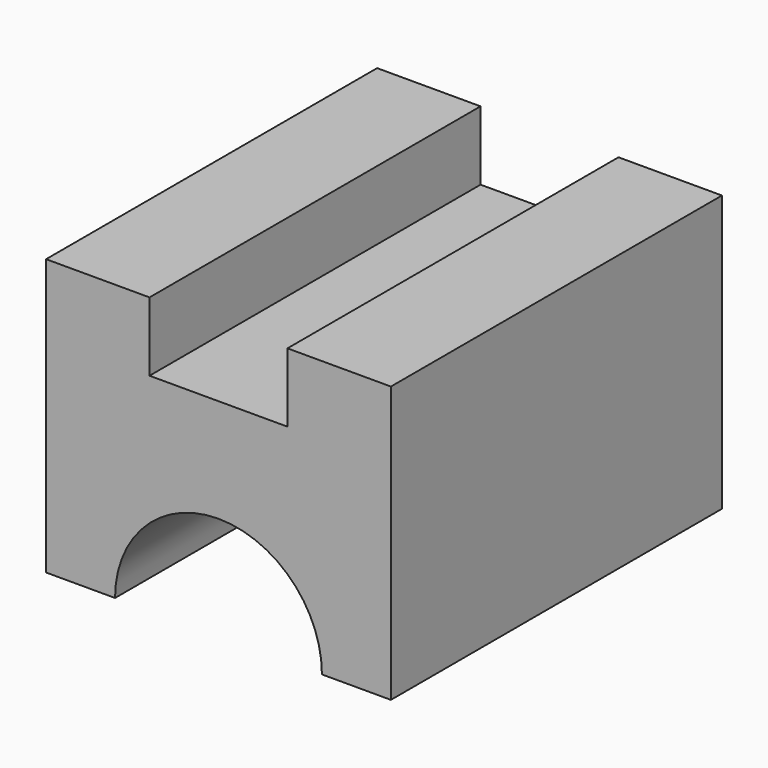
from build123d import *

# Parameters (mm, degrees)
F1_DEPTH = 60


with BuildPart() as f1:
    # F0 (on Front) → F1 (new body)
    with BuildSketch(Plane.XZ):
        with BuildLine():
            Line((0, 40), (0, 0))
            Line((0, 0), (10, 0))
            ThreePointArc((10, 0), (25, 15), (40, 0))
            Line((40, 0), (50, 0))
            Line((50, 0), (50, 40))
            Line((50, 40), (35, 40))
            Line((35, 40), (35, 30))
            Line((35, 30), (15, 30))
            Line((15, 30), (15, 40))
            Line((15, 40), (0, 40))
        make_face()
    extrude(amount=-F1_DEPTH)


solid = f1.part
